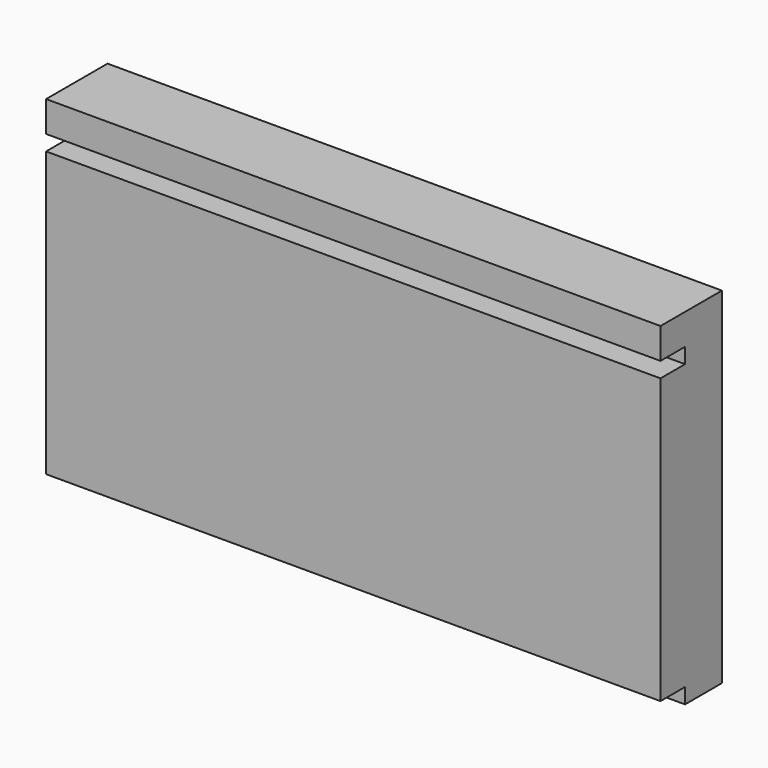
from build123d import *

# Parameters (mm, degrees)
F0_W     = 160
F0_H     = 74
F1_DEPTH = 20
F0_H_2   = 8
F2_DEPTH = 20
F0_H_3   = 4
F3_DEPTH = 12
F4_DEPTH = 12


with BuildPart() as f1:
    # F0 (on Front) → F1 (new body)
    with BuildSketch(Plane.XZ):
        with Locations((2.1462311399, -1.7670125663)):
            Rectangle(F0_W, F0_H)
    extrude(amount=F1_DEPTH)



with BuildPart() as f2:
    # F0 (on Front) → F2 (new body)
    with BuildSketch(Plane.XZ):
        with Locations((2.1462311399, 43.2329874337)):
            Rectangle(F0_W, F0_H_2)
    extrude(amount=F2_DEPTH)


with BuildPart() as f1_1:
    add(f1.part)

    add(f2.part)  # F3 merges F2
    # F0 (on Front) → F3 (join)
    with BuildSketch(Plane.XZ):
        with Locations((2.1462311399, 37.2329874337)):
            Rectangle(F0_W, F0_H_3)
    extrude(amount=F3_DEPTH)

    # F0 (on Front) → F4 (join)
    with BuildSketch(Plane.XZ):
        with Locations((2.1462311399, -40.7670125663)):
            Rectangle(F0_W, F0_H_3)
    extrude(amount=F4_DEPTH)


solid = f1_1.part
